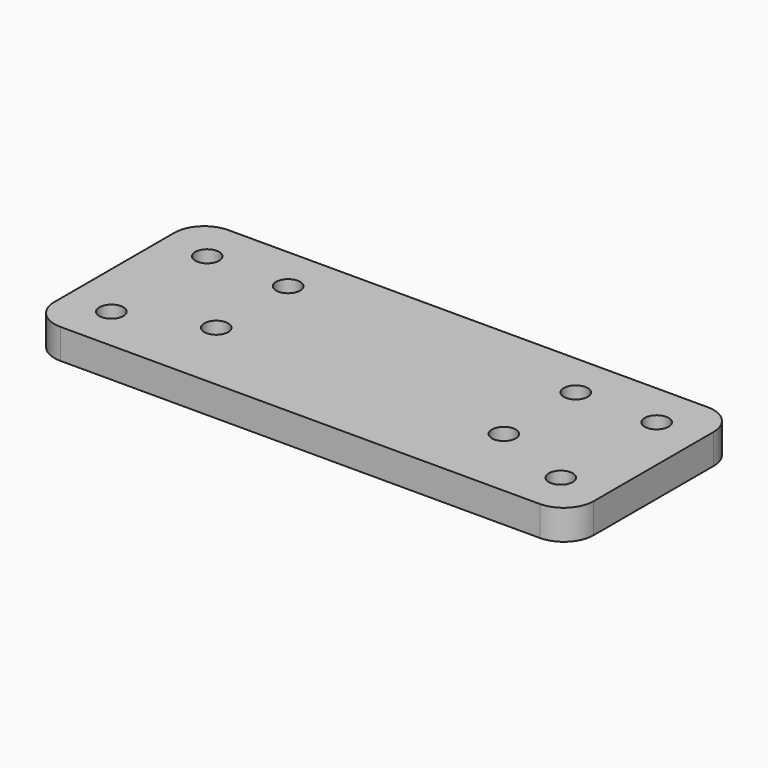
from build123d import *

# Parameters (mm, degrees)
SKETCH_W  = 180
SKETCH_H  = 70
SKETCH_R  = 4
PAD_DEPTH = 10
FILLET_R  = 10


with BuildPart() as part:
    # Sketch → Pad (new body)
    with BuildSketch(Plane.XY):
        with Locations((60, 25)):
            Rectangle(SKETCH_W, SKETCH_H)
        with Locations((-15, 45)):
            Circle(SKETCH_R, mode=Mode.SUBTRACT)
        with Locations((135, 45)):
            Circle(SKETCH_R, mode=Mode.SUBTRACT)
        with Locations((-15, 5)):
            Circle(SKETCH_R, mode=Mode.SUBTRACT)
        with Locations((135, 5)):
            Circle(SKETCH_R, mode=Mode.SUBTRACT)
        with Locations((12, 45)):
            Circle(SKETCH_R, mode=Mode.SUBTRACT)
        with Locations((108, 45)):
            Circle(SKETCH_R, mode=Mode.SUBTRACT)
        with Locations((12, 15)):
            Circle(SKETCH_R, mode=Mode.SUBTRACT)
        with Locations((108, 15)):
            Circle(SKETCH_R, mode=Mode.SUBTRACT)
    extrude(amount=PAD_DEPTH)

    # Fillet
    fillet_edges = [part.edges().sort_by_distance(p)[0] for p in [
        (-30, -10, 5),
        (-30, 60, 5),
        (150, -10, 5),
        (150, 60, 5),
    ]]
    fillet(fillet_edges, radius=FILLET_R)


solid = part.part
